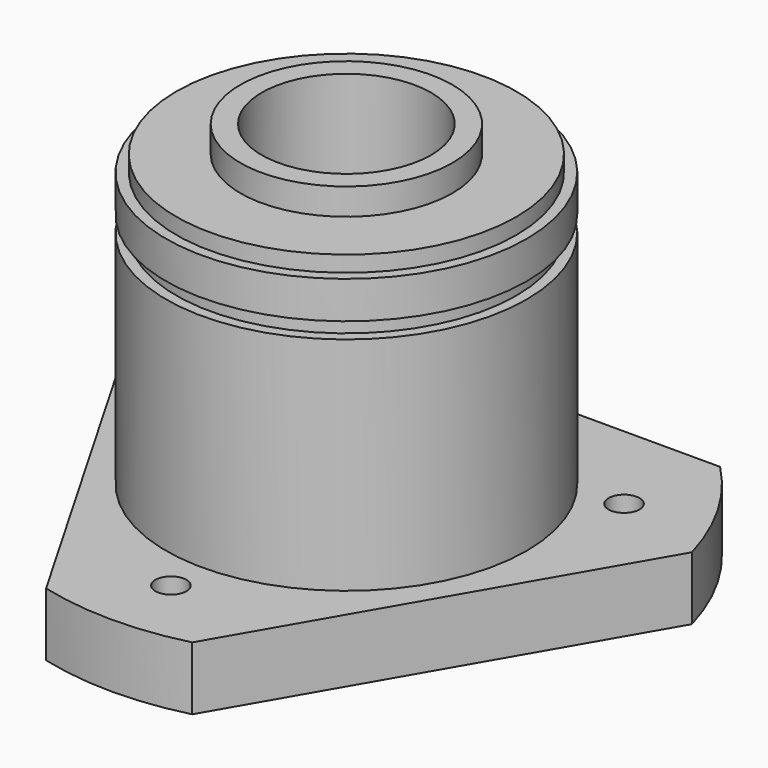
from build123d import *

# Parameters (mm, degrees)
F0_R      = 13.525
F0_R_2    = 6.35
F1_DEPTH  = 23.8
F2_R      = 13.525
F2_R_2    = 7.95
F3_DEPTH  = 2
F4_R      = 13.525
F4_R_2    = 12.75
F5_DEPTH  = 1.2
F6_R      = 1.1608870099
F6_R_2    = 13.525
F6_R_3    = 6.35
F7_DEPTH  = 4.75
F8_R      = 12.75
F8_R_2    = 6.35
F9_DEPTH  = 1.2
F10_R     = 7.925
F10_R_2   = 6.35
F11_DEPTH = 2.5
F13_R     = 13.525
F13_R_2   = 12.75
F14_DEPTH = 1.2


with BuildPart() as f1:
    # F0 (on Top) → F1 (new body)
    with BuildSketch(Plane.XY):
        Circle(F0_R)
        Circle(F0_R_2, mode=Mode.SUBTRACT)
    extrude(amount=F1_DEPTH)

    # F2 (on face) → F3 (cut)
    with BuildSketch(Plane.XY.offset(23.8)):
        Circle(F2_R)
        Circle(F2_R_2, mode=Mode.SUBTRACT)
    extrude(amount=-F3_DEPTH, mode=Mode.SUBTRACT)

    # F4 (on face) → F5 (cut)
    with BuildSketch(Plane.XY.offset(21.8)):
        Circle(F4_R)
        Circle(F4_R_2, mode=Mode.SUBTRACT)
    extrude(amount=-F5_DEPTH, mode=Mode.SUBTRACT)

    # F6 (on face) → F7 (join)
    with BuildSketch(Plane(origin=(0, 0, 0), x_dir=(1, 0, 0), z_dir=(0, 0, -1))):
        with BuildLine():
            Line((21.1923624897, -5.9062485645), (5.4812199469, 21.3062485645))
            ThreePointArc((5.4812199469, 21.3062485645), (0, 22), (-5.4812199469, 21.3062485645))
            Line((-5.4812199469, 21.3062485645), (-21.1923624897, -5.9062485645))
            ThreePointArc((-21.1923624897, -5.9062485645), (-19.0525588833, -11), (-15.7111425428, -15.4))
            Line((-15.7111425428, -15.4), (15.7111425428, -15.4))
            ThreePointArc((15.7111425428, -15.4), (19.0525588833, -11), (21.1923624897, -5.9062485645))
        make_face()
        with Locations((-14.2461178923, -8.225)):
            Circle(F6_R, mode=Mode.SUBTRACT)
        with Locations((14.2461178923, -8.225)):
            Circle(F6_R, mode=Mode.SUBTRACT)
        Circle(F6_R_2, mode=Mode.SUBTRACT)
        with Locations((0, 16.45)):
            Circle(F6_R, mode=Mode.SUBTRACT)
        Circle(F6_R_2)
        Circle(F6_R_3, mode=Mode.SUBTRACT)
    extrude(amount=F7_DEPTH)

    # F8 (on face) → F9 (cut)
    with BuildSketch(Plane(origin=(0, 0, -4.75), x_dir=(1, 0, 0), z_dir=(0, 0, -1))):
        Circle(F8_R)
        Circle(F8_R_2, mode=Mode.SUBTRACT)
    extrude(amount=-F9_DEPTH, mode=Mode.SUBTRACT)

    # F10 (on face) → F11 (cut)
    with BuildSketch(Plane(origin=(0, 0, -3.55), x_dir=(1, 0, 0), z_dir=(0, 0, -1))):
        Circle(F10_R)
        Circle(F10_R_2, mode=Mode.SUBTRACT)
    extrude(amount=-F11_DEPTH, mode=Mode.SUBTRACT)

    # F13 (on offset) → F14 (cut)
    with BuildSketch(Plane.XY.offset(17.8)):
        Circle(F13_R)
        Circle(F13_R_2, mode=Mode.SUBTRACT)
    extrude(amount=-F14_DEPTH, mode=Mode.SUBTRACT)


solid = f1.part
